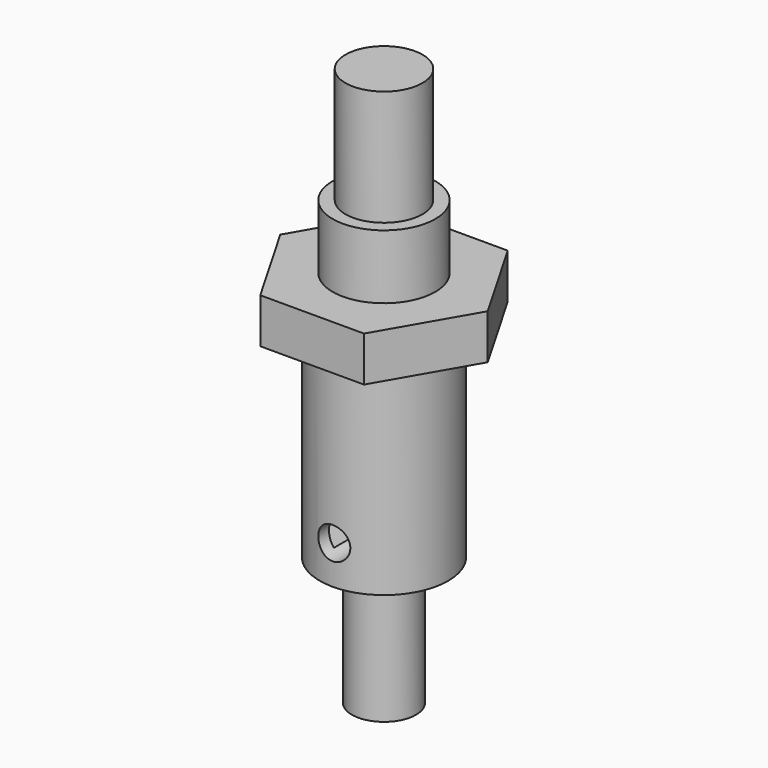
from build123d import *

# Parameters (mm, degrees)
F0_R      = 2.5
F1_DEPTH  = 10
F2_R      = 5
F3_DEPTH  = 16
F5_DEPTH  = 3.5
F6_R      = 4
F7_DEPTH  = 17.5
F8_R      = 1.25
F9_DEPTH  = 12.5
F10_R     = 1.25
F11_DEPTH = 8.083904
F12_R     = 4
F13_DEPTH = 5
F14_R     = 3
F15_DEPTH = 9
F16_R     = 2.25
F17_DEPTH = 6
F18_R     = 3
F19_DEPTH = 0.75
F20_R     = 1.6
F21_DEPTH = 2
F22_R     = 2.5
F23_DEPTH = 0.75


with BuildPart() as f1:
    # F0 (on Top) → F1 (new body)
    with BuildSketch(Plane.XY):
        Circle(F0_R)
    extrude(amount=F1_DEPTH)

    # F2 (on face) → F3 (join)
    with BuildSketch(Plane.XY.offset(10)):
        Circle(F2_R)
    extrude(amount=F3_DEPTH)

    # F4 (on face) → F5 (join)
    with BuildSketch(Plane.XY.offset(26)):
        Polygon((4.041452, 7), (-4.041452, 7), (-8.082904, 0), (-4.041452, -7), (4.041452, -7), (8.082904, 0), align=None)
    extrude(amount=F5_DEPTH)

    # F6 (on face) → F7 (cut)
    with BuildSketch(Plane.XY.offset(29.5)):
        Circle(F6_R)
    extrude(amount=-F7_DEPTH, mode=Mode.SUBTRACT)

    # F8 (on Front) → F9 (cut, symmetric)
    with BuildSketch(Plane.XZ):
        with Locations((0, 13)):
            Circle(F8_R)
    extrude(amount=F9_DEPTH, both=True, mode=Mode.SUBTRACT)

    # F10 (on Right) → F11 (cut, through all)
    with BuildSketch(Plane.YZ):
        with Locations((0, 13)):
            Circle(F10_R)
    extrude(amount=-F11_DEPTH, mode=Mode.SUBTRACT)


with BuildPart() as f13:
    # F12 (on face) → F13 (new body)
    with BuildSketch(Plane.XY.offset(29.5)):
        Circle(F12_R)
    extrude(amount=F13_DEPTH)

    # F14 (on face) → F15 (join)
    with BuildSketch(Plane.XY.offset(34.5)):
        Circle(F14_R)
    extrude(amount=F15_DEPTH)

    # F16 (on face) → F17 (join)
    with BuildSketch(Plane(origin=(0, 0, 29.5), x_dir=(1, 0, 0), z_dir=(0, 0, -1))):
        Circle(F16_R)
    extrude(amount=F17_DEPTH)

    # F18 (on face) → F19 (join)
    with BuildSketch(Plane(origin=(0, 0, 23.5), x_dir=(1, 0, 0), z_dir=(0, 0, -1))):
        Circle(F18_R)
    extrude(amount=F19_DEPTH)

    # F20 (on face) → F21 (join)
    with BuildSketch(Plane(origin=(0, 0, 22.75), x_dir=(1, 0, 0), z_dir=(0, 0, -1))):
        Circle(F20_R)
    extrude(amount=F21_DEPTH)

    # F22 (on face) → F23 (join)
    with BuildSketch(Plane(origin=(0, 0, 20.75), x_dir=(1, 0, 0), z_dir=(0, 0, -1))):
        Circle(F22_R)
    extrude(amount=F23_DEPTH)

    # F24 (on Front) → F25 (revolve)
    with BuildSketch(Plane.XZ):
        Polygon((0, 15.254581), (0, 20), (-2.112797, 20), align=None)
    revolve(axis=Axis((0, 0, 17.627291), (0, 0, 1)))


solid = Compound([f1.part, f13.part])
